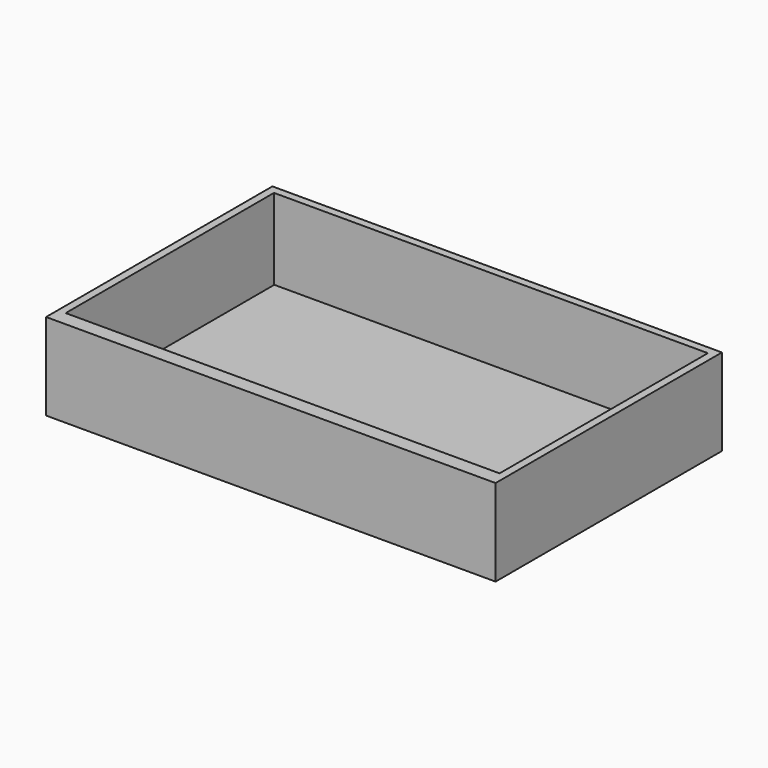
from build123d import *

# Parameters (mm, degrees)
F0_W      = 131.572
F0_H      = 80.772
F0_W_2    = 127
F0_H_2    = 76.2
F1_DEPTH  = 25.4
F1_FACE_W = 131.572
F1_FACE_H = 25.4
F3_DEPTH  = 2.032
F2_W      = 126.530789
F2_H      = 75.769949
F4_DEPTH  = 2.032


with BuildPart() as f1:
    # F0 (on Top) → F1 (new body)
    with BuildSketch(Plane.XY):
        Rectangle(F0_W, F0_H)
        Rectangle(F0_W_2, F0_H_2, mode=Mode.SUBTRACT)
    extrude(amount=F1_DEPTH)

    # F1_face (on face) → F3 (join)
    with BuildSketch(Plane(origin=(0, -40.386, 12.7), x_dir=(1, 0, 0), z_dir=(0, -1, 0))):
        Rectangle(F1_FACE_W, F1_FACE_H)
    extrude(amount=F3_DEPTH)

    # F2 (on Top) → F4 (join)
    with BuildSketch(Plane.XY):
        with Locations((0.215594, -0.227573)):
            Rectangle(F2_W, F2_H)
    extrude(amount=F4_DEPTH)


solid = f1.part
